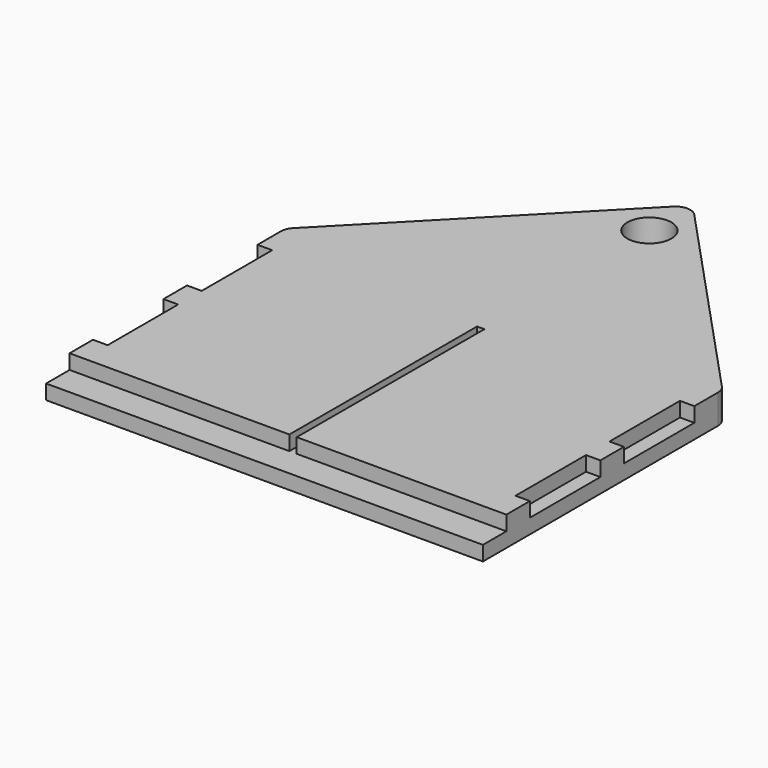
from build123d import *

# Parameters (mm, degrees)
F0_R     = 9.525
F1_DEPTH = 12.7
F2_W     = 6.221138
F2_H     = 38.1
F2_W_2   = 6.35
F3_DEPTH = 6.35


with BuildPart() as f1:
    # F0 (on Top) → F1 (new body)
    with BuildSketch(Plane.XY):
        with BuildLine():
            Line((-96.801729, -45.629939), (-96.801729, -172.538572))
            Line((-96.801729, -172.538572), (92.110771, -172.538572))
            Line((92.110771, -172.538572), (92.110771, -45.538572))
            ThreePointArc((92.110771, -45.538572), (91.670845, -43.216174), (90.412021, -41.215567))
            Line((90.412021, -41.215567), (4.537085, 51.179843))
            ThreePointArc((4.537085, 51.179843), (-0.035412, 53.20635), (-4.656764, 51.293875))
            Line((-4.656764, 51.293875), (-94.994327, -41.192901))
            ThreePointArc((-94.994327, -41.192901), (-96.332545, -43.234422), (-96.801729, -45.629939))
        make_face()
        with Locations((0, 32.611001)):
            Circle(F0_R, mode=Mode.SUBTRACT)
    extrude(amount=F1_DEPTH)

    # F2 (on face) → F3 (cut)
    with BuildSketch(Plane.XY.offset(12.7)):
        with Locations((89.000202, -77.288572)):
            Rectangle(F2_W, F2_H)
        with Locations((89.000202, -128.088572)):
            Rectangle(F2_W, F2_H)
        with Locations((-93.626729, -77.288572)):
            Rectangle(F2_W_2, F2_H)
        with Locations((-93.626729, -128.134255)):
            Rectangle(F2_W_2, F2_H)
        Polygon((-1.733305, -159.838572), (-96.801729, -159.838572), (-96.801729, -172.538572), (92.110771, -172.538572), (92.110771, -159.838572), (1.441695, -159.838572), align=None)
        Polygon((-1.5875, -58.573842), (-1.733305, -159.838572), (1.441695, -159.838572), (1.5875, -58.573842), align=None)
    extrude(amount=-F3_DEPTH, mode=Mode.SUBTRACT)


solid = f1.part
